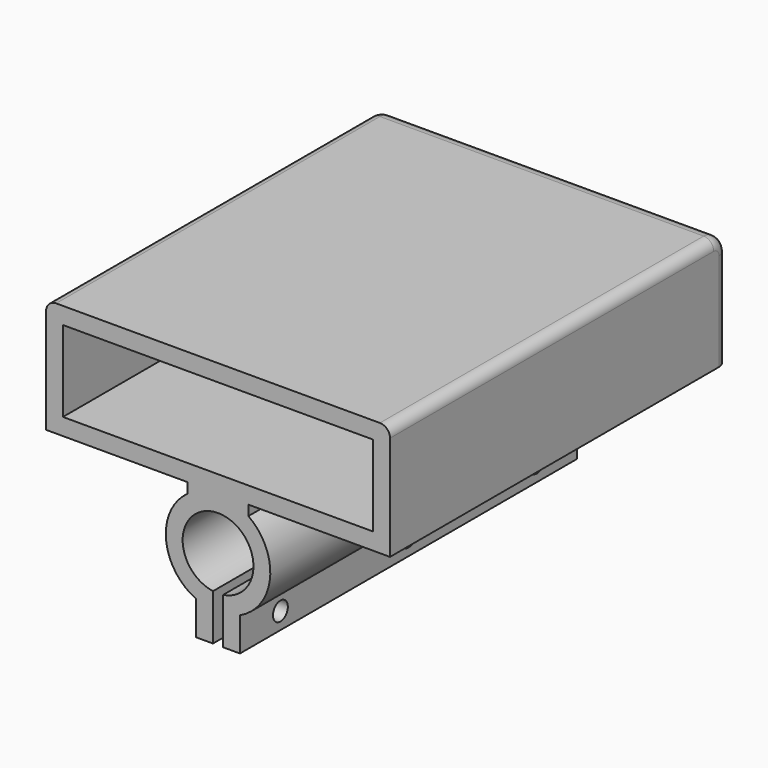
from build123d import *

# Parameters (mm, degrees)
PAD_DEPTH       = 125
SKETCH001_W     = 92
SKETCH001_H     = 24
POCKET_DEPTH    = 120
FILLET_R        = 5
FILLET001_R     = 3
FILLET002_R     = 3
SKETCH002_R     = 2.75
POCKET001_DEPTH = 57.501


with BuildPart() as part:
    # Sketch → Pad (new body)
    with BuildSketch(Plane.XZ):
        with BuildLine():
            ThreePointArc((1.5, -26.011734), (0, -5.119429), (-1.5, -26.011734))
            Line((-1.5, -26.011734), (-1.5, -39.690677))
            Line((-1.5, -39.690677), (-6.5, -39.690677))
            Line((-6.5, -39.690677), (-6.5, -29.690677))
            ThreePointArc((-9, -3), (-15.432451, -17.06492), (-6.5, -29.690677))
            Line((-9, -3), (-9, 0))
            Line((-9, 0), (-51, 0))
            Line((-51, 0), (-51, 34))
            Line((-51, 34), (51, 34))
            Line((51, 0), (51, 34))
            Line((9, 0), (51, 0))
            Line((9, -3), (9, 0))
            ThreePointArc((6.5, -29.690677), (15.432451, -17.06492), (9, -3))
            Line((6.5, -39.690677), (6.5, -29.690677))
            Line((1.5, -39.690677), (6.5, -39.690677))
            Line((1.5, -26.011734), (1.5, -39.690677))
        make_face()
    extrude(amount=PAD_DEPTH)

    # Sketch001 (on Face18 of Pad) → Pocket (cut)
    with BuildSketch(Plane.XZ.offset(125)):
        with Locations((0, 17)):
            Rectangle(SKETCH001_W, SKETCH001_H)
    extrude(amount=-POCKET_DEPTH, mode=Mode.SUBTRACT)

    # Fillet
    fillet_edges = [part.edges().sort_by_distance(p)[0] for p in [
        (0, 0, 34),
    ]]
    fillet(fillet_edges, radius=FILLET_R)

    # Fillet001
    fillet001_edges = [part.edges().sort_by_distance(p)[0] for p in [
        (51, 0, 14.5),
    ]]
    fillet(fillet001_edges, radius=FILLET001_R)

    # Fillet002
    fillet002_edges = [part.edges().sort_by_distance(p)[0] for p in [
        (-51, 0, 14.5),
    ]]
    fillet(fillet002_edges, radius=FILLET002_R)

    # Sketch002 (on Face12 of Fillet002) → Pocket001 (cut, through all)
    with BuildSketch(Plane(origin=(6.5, 0, 0), x_dir=(0, 0, 1), z_dir=(1, 0, 0))):
        with Locations((-34.690677, 110)):
            Circle(SKETCH002_R)
        with Locations((-34.690677, 62.5)):
            Circle(SKETCH002_R)
        with Locations((-34.690677, 15)):
            Circle(SKETCH002_R)
    extrude(amount=-POCKET001_DEPTH, mode=Mode.SUBTRACT)


solid = part.part
